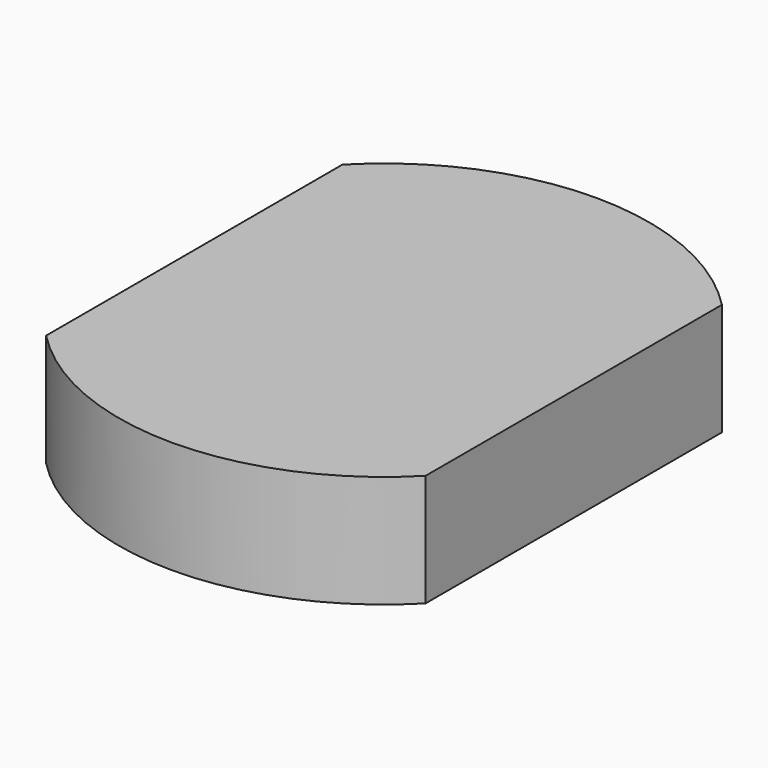
from build123d import *

# Parameters (mm, degrees)
F0_W     = 257.391664
F0_H     = 251.238492
F1_DEPTH = 76.2


with BuildPart() as f1:
    # F0 (on Top) → F1 (new body)
    with BuildSketch(Plane.XY):
        with BuildLine():
            ThreePointArc((-128.695832, -125.619246), (0, -179.841075), (128.695832, -125.619246))
            Line((128.695832, -125.619246), (-128.695832, -125.619246))
        make_face()
        Rectangle(F0_W, F0_H)
        with BuildLine():
            Line((-128.695832, 125.619246), (128.695832, 125.619246))
            ThreePointArc((128.695832, 125.619246), (0, 179.841075), (-128.695832, 125.619246))
        make_face()
    extrude(amount=F1_DEPTH)


solid = f1.part
